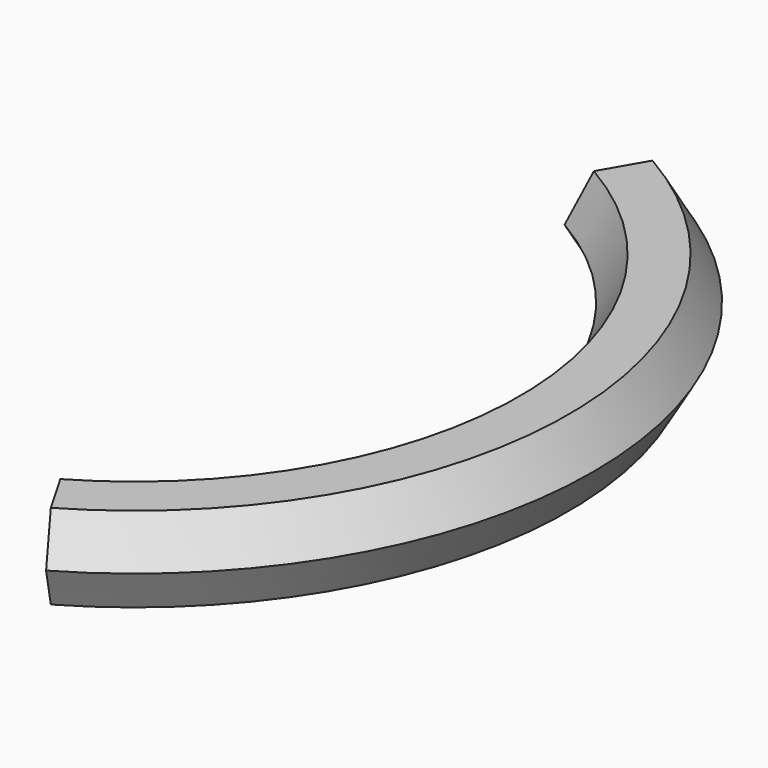
from build123d import *

# Parameters (mm, degrees)
F1_ANGLE = 120


with BuildPart() as f1:
    # F0 (on Front) → F1 (revolve, symmetric)
    with BuildSketch(Plane.XZ) as f1_sk:
        Polygon((47, -5.196152), (53, -5.196152), (56, 0), (53, 5.196152), (47, 5.196152), (44, 0), align=None)
    revolve(axis=Axis((0, 0, 10.0741), (0, 0, 1)), revolution_arc=F1_ANGLE / 2)
    revolve(f1_sk.sketch, axis=Axis((0, 0, 10.0741), (0, 0, -1)), revolution_arc=F1_ANGLE / 2)


solid = f1.part
